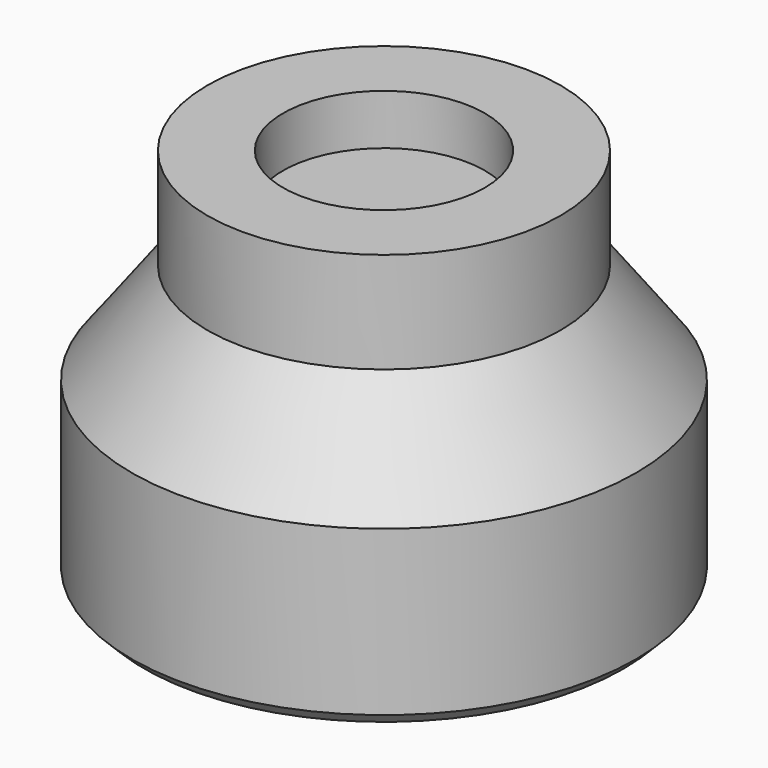
from build123d import *

# Parameters (mm, degrees)
F2_R     = 4
F3_DEPTH = 2
F4_SIZE  = 0.5


with BuildPart() as f1:
    # F0 (on Front) → F1 (revolve)
    with BuildSketch(Plane.XZ):
        Polygon((0, 15), (0, 0), (10, 0), (10, 7), (7, 11), (7, 15), align=None)
    revolve(axis=Axis((0, 0, 7.5), (0, 0, -1)))

    # F2 (on face) → F3 (cut)
    with BuildSketch(Plane.XY.offset(15)):
        Circle(F2_R)
    extrude(amount=-F3_DEPTH, mode=Mode.SUBTRACT)

    # F4
    f4_edges = [f1.edges().sort_by_distance(p)[0] for p in [
        (-10, 0, 0),
    ]]
    chamfer(f4_edges, length=F4_SIZE)


solid = f1.part
